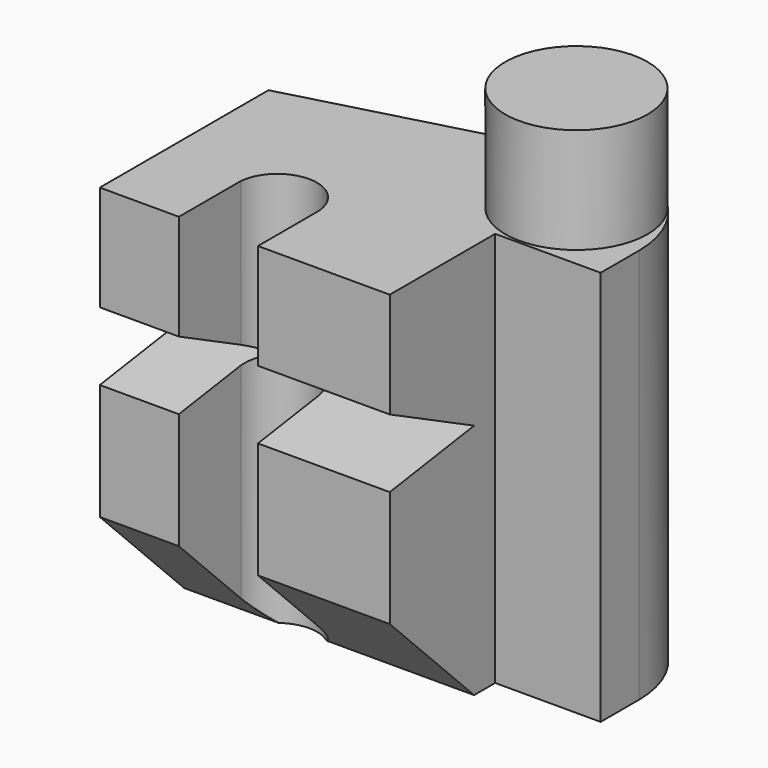
from build123d import *

# Parameters (mm, degrees)
F1_DEPTH = 75
F2_R     = 13.5
F3_DEPTH = 20
F5_DEPTH = 55.001
F7_DEPTH = 55.001


with BuildPart() as f1:
    # F0 (on Top) → F1 (new body)
    with BuildSketch(Plane.XY):
        with BuildLine():
            Line((0, 40), (0, 0))
            Line((0, 0), (15, 0))
            Line((15, 0), (15, 14.675536))
            ThreePointArc((15, 14.675536), (22.822899, 21.507602), (30, 14))
            Line((30, 14), (30, 0))
            Line((30, 0), (55, 0))
            Line((55, 0), (55, 25))
            Line((55, 25), (75, 25))
            Line((75, 25), (75, 34.041284))
            ThreePointArc((75, 34.041284), (67.415432, 49.721114), (50.414294, 53.508469))
            Line((50.414294, 53.508469), (0, 40))
        make_face()
    extrude(amount=F1_DEPTH)

    # F2 (on face) → F3 (join)
    with BuildSketch(Plane.XY.offset(75)):
        with Locations((59.202516, 39)):
            Circle(F2_R)
    extrude(amount=F3_DEPTH)

    # F4 (on face) → F5 (cut, through all)
    with BuildSketch(Plane.YZ.offset(55)):
        Polygon((20, 45), (0, 55), (0, 42.03419), align=None)
    extrude(amount=-F5_DEPTH, mode=Mode.SUBTRACT)

    # F6 (on face) → F7 (cut, through all)
    with BuildSketch(Plane.YZ.offset(55)):
        Polygon((20, 0), (0, 20), (0, 0), align=None)
    extrude(amount=-F7_DEPTH, mode=Mode.SUBTRACT)


solid = f1.part
